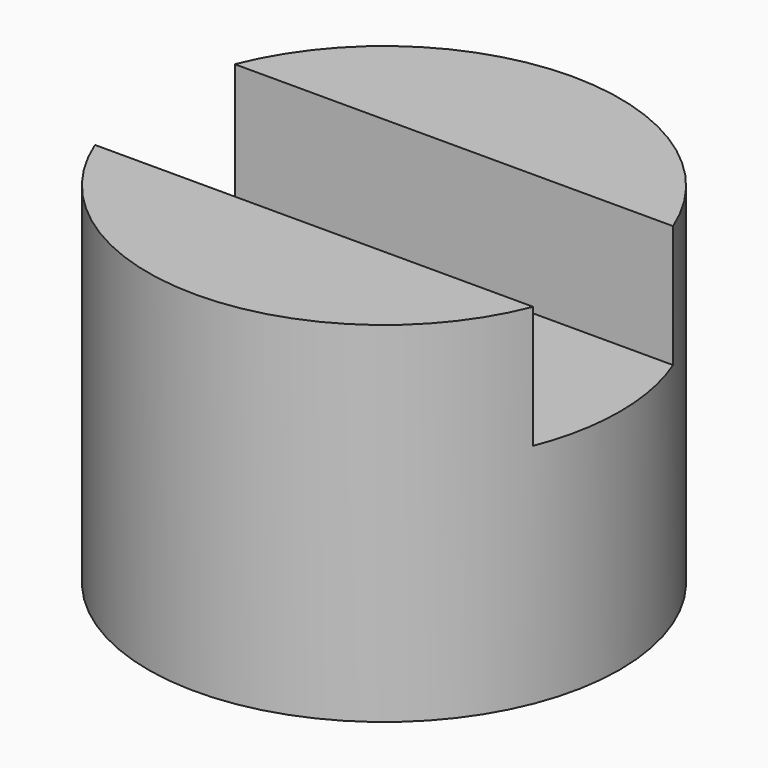
from build123d import *

# Parameters (mm, degrees)
BOX010_W          = 3
BOX010_H          = 1
BOX010_DEPTH      = 0.7
CYLINDER006_R     = 1.35
CYLINDER006_DEPTH = 2


with BuildPart() as cube006:
    # Box010 → Box010 (new body)
    with BuildSketch(Plane(origin=(-1.5, -0.5, 1.3), x_dir=(1, 0, 0), z_dir=(0, 0, 1))):
        with Locations((1.5, 0.5)):
            Rectangle(BOX010_W, BOX010_H)
    extrude(amount=BOX010_DEPTH)


with BuildPart() as cut010:
    # Cylinder006 → Cylinder006 (new body)
    with BuildSketch(Plane.XY):
        Circle(CYLINDER006_R)
    extrude(amount=CYLINDER006_DEPTH)

    # Cut010: cut Cube006
    add(cube006.part, mode=Mode.SUBTRACT)


with BuildPart() as cut010_1:
    # Cut010 placement: moved
    add(cut010.part.moved(Location((1.75, 4.1, 10))))


solid = cut010_1.part
